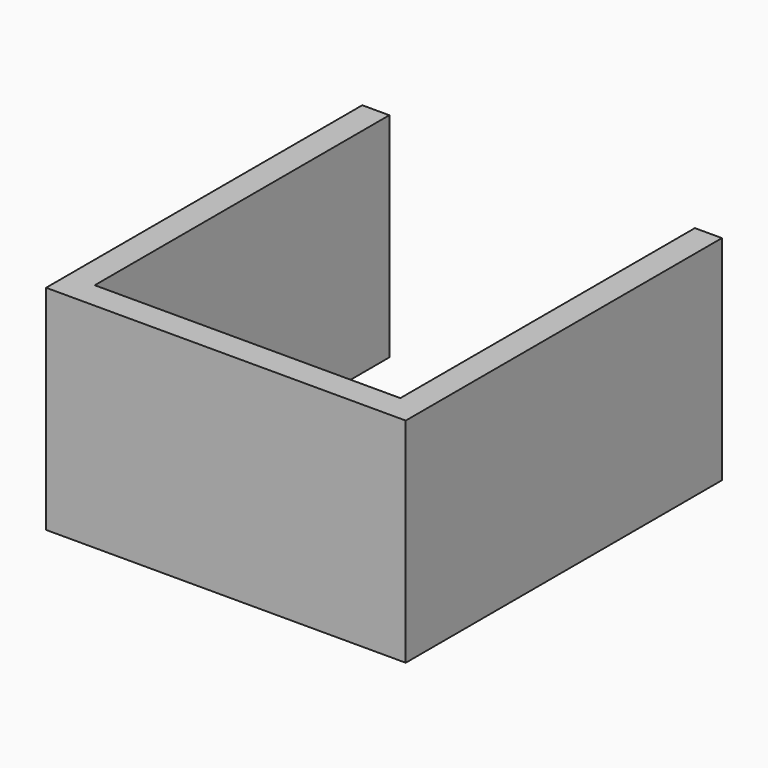
from build123d import *

# Parameters (mm, degrees)
F0_W     = 2.6
F0_H     = 2.6
F0_H_2   = 35.4
F0_W_2   = 29.38
F1_DEPTH = 20.5


with BuildPart() as f1:
    # F0 (on Top) → F1 (new body)
    with BuildSketch(Plane.XY):
        with Locations((15.99, -17.7)):
            Rectangle(F0_W, F0_H)
        with Locations((-15.99, -17.7)):
            Rectangle(F0_W, F0_H)
        with Locations((15.99, 1.3)):
            Rectangle(F0_W, F0_H_2)
        with Locations((-15.99, 1.3)):
            Rectangle(F0_W, F0_H_2)
        with Locations((0, -17.7)):
            Rectangle(F0_W_2, F0_H)
    extrude(amount=F1_DEPTH)


solid = f1.part
